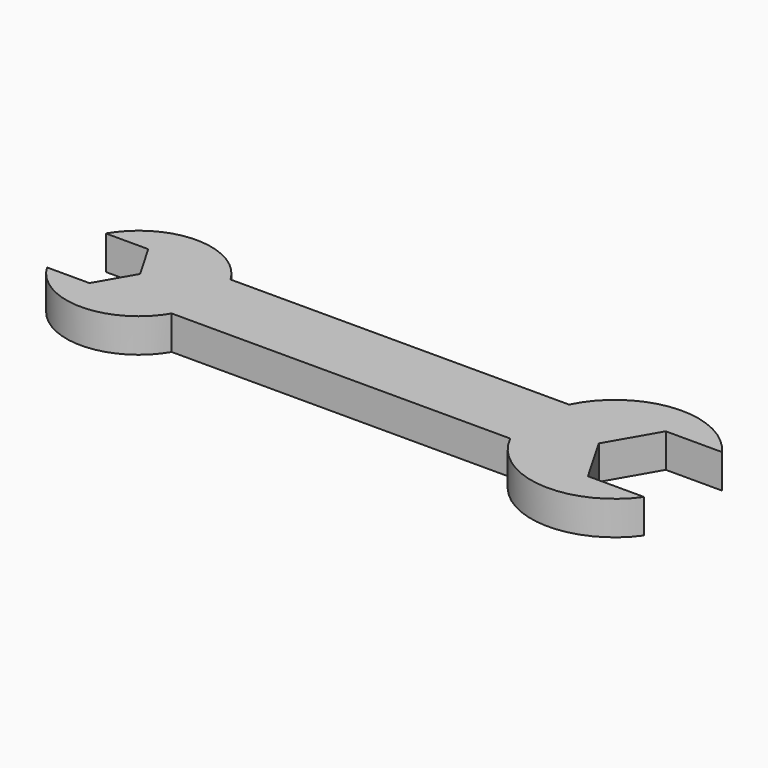
from build123d import *

# Parameters (mm, degrees)
F1_DEPTH = 6


with BuildPart() as f1:
    # F0 (on Top) → F1 (new body)
    with BuildSketch(Plane.XY):
        with BuildLine():
            Line((-49.6510066098, 0), (-49.6510066098, 6.5))
            Line((-49.6510066098, 6.5), (-38.8557657197, 6.5))
            ThreePointArc((-38.8557657197, 6.5), (-49.8825512893, 12.8), (-60.909336859, 6.5))
            Line((-60.909336859, 6.5), (-53.4037833596, 6.5))
            Line((-53.4037833596, 6.5), (-49.6510066098, 0))
        make_face()
        with BuildLine():
            Line((-38.8557657197, 6.5), (-49.6510066098, 6.5))
            Line((-49.6510066098, 6.5), (-49.6510066098, 0))
            Line((-49.6510066098, 0), (-49.6510066098, -6.5))
            Line((-49.6510066098, -6.5), (-38.8557657197, -6.5))
            ThreePointArc((-38.8557657197, -6.5), (-37.5338093435, -3.3687642176), (-37.0825512893, 0))
            ThreePointArc((-37.0825512893, 0), (-37.5338093435, 3.3687642176), (-38.8557657197, 6.5))
        make_face()
        with BuildLine():
            Line((-49.6510066098, -6.5), (-49.6510066098, 0))
            Line((-49.6510066098, 0), (-53.4037833596, -6.5))
            Line((-53.4037833596, -6.5), (-60.909336859, -6.5))
            ThreePointArc((-60.909336859, -6.5), (-49.8825512893, -12.8), (-38.8557657197, -6.5))
            Line((-38.8557657197, -6.5), (-49.6510066098, -6.5))
        make_face()
        with BuildLine():
            Line((21.0090092811, 6.5), (-38.8557657197, 6.5))
            ThreePointArc((-38.8557657197, 6.5), (-37.5338093435, 3.3687642176), (-37.0825512893, 0))
            ThreePointArc((-37.0825512893, 0), (-37.5338093435, -3.3687642176), (-38.8557657197, -6.5))
            Line((-38.8557657197, -6.5), (21.0090092811, -6.5))
            ThreePointArc((21.0090092811, -6.5), (19.5052493512, 0), (21.0090092811, 6.5))
        make_face()
        with BuildLine():
            ThreePointArc((46.3501652911, 8.6), (33.0829756422, 14.74944226), (21.0090092811, 6.5))
            Line((21.0090092811, 6.5), (31.454528346, 6.5))
            Line((31.454528346, 6.5), (31.454528346, 0))
            Line((31.454528346, 0), (36.419740661, 8.6))
            Line((36.419740661, 8.6), (46.3501652911, 8.6))
        make_face()
        with BuildLine():
            Line((31.454528346, 6.5), (21.0090092811, 6.5))
            ThreePointArc((21.0090092811, 6.5), (19.5052493512, 0), (21.0090092811, -6.5))
            Line((21.0090092811, -6.5), (31.454528346, -6.5))
            Line((31.454528346, -6.5), (31.454528346, 0))
            Line((31.454528346, 0), (31.454528346, 6.5))
        make_face()
        with BuildLine():
            Line((31.454528346, -6.5), (21.0090092811, -6.5))
            ThreePointArc((21.0090092811, -6.5), (33.0829756422, -14.74944226), (46.3501652911, -8.6))
            Line((46.3501652911, -8.6), (36.419740661, -8.6))
            Line((36.419740661, -8.6), (31.454528346, 0))
            Line((31.454528346, 0), (31.454528346, -6.5))
        make_face()
    extrude(amount=F1_DEPTH)


solid = f1.part
